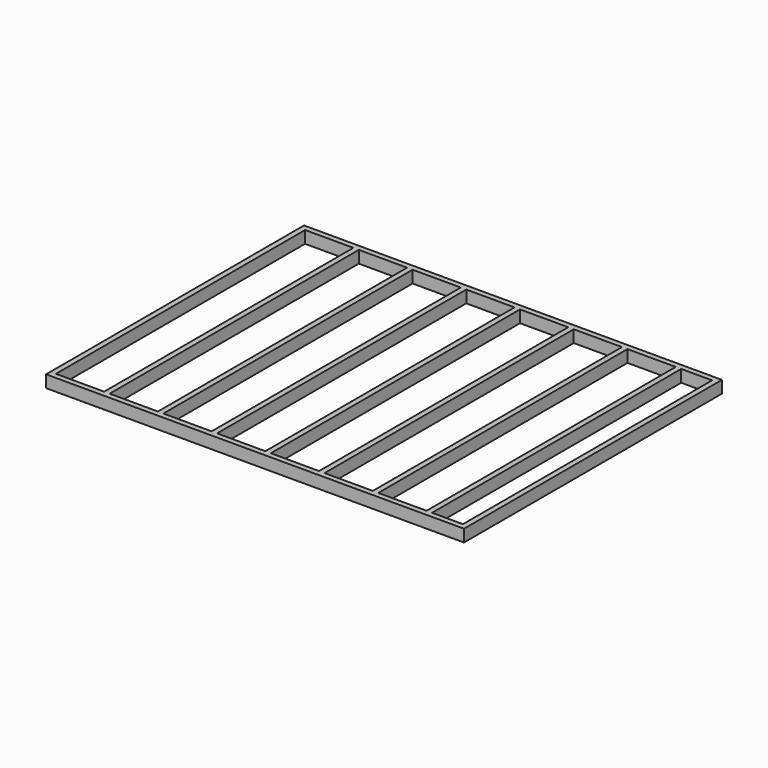
from build123d import *

# Parameters (mm, degrees)
F0_W     = 41.275
F0_H     = 2355.85
F0_W_2   = 41.148
F0_H_2   = 41.275
F1_DEPTH = 92.075


with BuildPart() as f1:
    # F0 (on Top) → F1 (new body)
    with BuildSketch(Plane.XY):
        with Locations((-3235.3377, 0)):
            Rectangle(F0_W, F0_H)
        with Locations((-2828.9377, 0)):
            Rectangle(F0_W, F0_H)
        with Locations((-2422.5377, 0)):
            Rectangle(F0_W, F0_H)
        with Locations((-2016.1377, 0)):
            Rectangle(F0_W, F0_H)
        with Locations((-1609.7377, 0)):
            Rectangle(F0_W, F0_H)
        with Locations((-1203.3377, 0)):
            Rectangle(F0_W, F0_H)
        with Locations((-928.2684, 0)):
            Rectangle(F0_W_2, F0_H)
        with Locations((-4048.1377, 0)):
            Rectangle(F0_W, F0_H)
        Polygon((-2401.9002, -1219.2), (-1630.3752, -1219.2), (-1630.3752, -1177.925), (-1995.5002, -1177.925), (-2036.7752, -1177.925), (-2401.9002, -1177.925), align=None)
        Polygon((-948.8424, 1177.925), (-948.8424, 1219.2), (-1630.3752, 1219.2), (-1630.3752, 1177.925), (-1589.1002, 1177.925), (-1223.9752, 1177.925), (-1182.7002, 1177.925), align=None)
        Polygon((-3214.7002, 1177.925), (-3214.7002, 1219.2), (-4068.7752, 1219.2), (-4068.7752, 1177.925), (-4027.5002, 1177.925), (-3662.3752, 1177.925), (-3621.1002, 1177.925), (-3255.9752, 1177.925), align=None)
        Polygon((-4068.7752, -1219.2), (-3214.7002, -1219.2), (-3214.7002, -1177.925), (-3255.9752, -1177.925), (-3621.1002, -1177.925), (-3662.3752, -1177.925), (-4027.5002, -1177.925), (-4068.7752, -1177.925), align=None)
        Polygon((-1630.3752, 1177.925), (-1630.3752, 1219.2), (-2401.9002, 1219.2), (-2401.9002, 1177.925), (-2036.7752, 1177.925), (-1995.5002, 1177.925), align=None)
        Polygon((-1630.3752, -1219.2), (-948.8424, -1219.2), (-948.8424, -1177.925), (-1182.7002, -1177.925), (-1223.9752, -1177.925), (-1589.1002, -1177.925), (-1630.3752, -1177.925), align=None)
        Polygon((-3214.7002, -1219.2), (-2401.9002, -1219.2), (-2401.9002, -1177.925), (-2443.1752, -1177.925), (-2808.3002, -1177.925), (-2849.5752, -1177.925), (-3214.7002, -1177.925), align=None)
        Polygon((-2401.9002, 1177.925), (-2401.9002, 1219.2), (-3214.7002, 1219.2), (-3214.7002, 1177.925), (-2849.5752, 1177.925), (-2808.3002, 1177.925), (-2443.1752, 1177.925), align=None)
        with Locations((-3641.7377, 0)):
            Rectangle(F0_W, F0_H)
        with Locations((-928.2684, -1198.5625)):
            Rectangle(F0_W_2, F0_H_2)
        with Locations((-928.2684, 1198.5625)):
            Rectangle(F0_W_2, F0_H_2)
    extrude(amount=F1_DEPTH)


solid = f1.part
